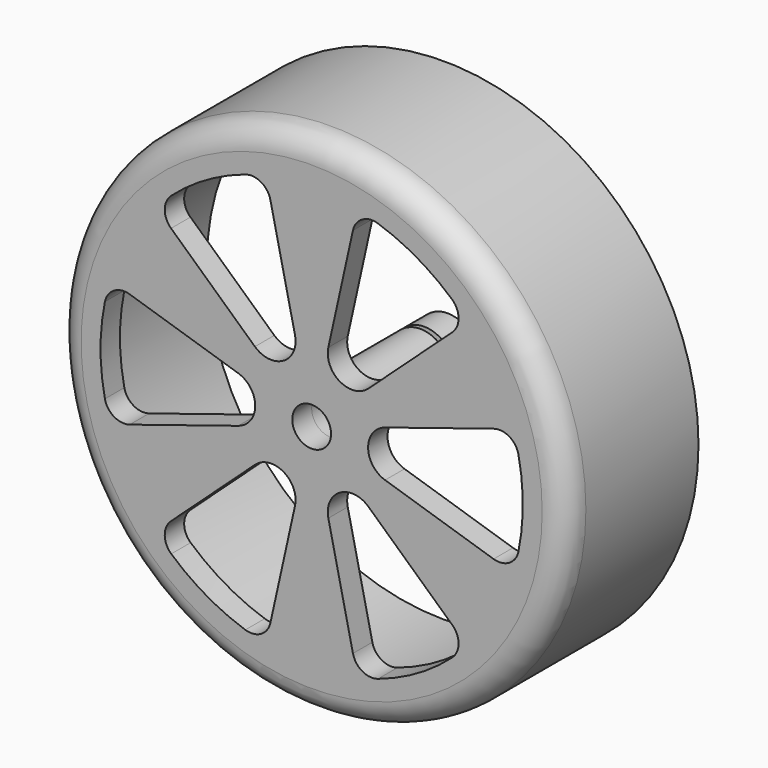
from build123d import *

# Parameters (mm, degrees)
F0_R      = 52.5
F0_R_2    = 48.8
F1_DEPTH  = 29
F2_R      = 52.5
F2_R_2    = 4
F3_DEPTH  = 5
F4_R      = 6.35
F4_R_2    = 4
F5_DEPTH  = 30
F7_R      = 6.85
F7_R_2    = 5.35
F8_DEPTH  = 1
F9_R      = 9.525
F9_R_2    = 4.384096
F10_DEPTH = 1
F11_R     = 5
F13_DEPTH = 25


with BuildPart() as f1:
    # F0 (on Front) → F1 (new body)
    with BuildSketch(Plane.XZ):
        Circle(F0_R)
        Circle(F0_R_2, mode=Mode.SUBTRACT)
    extrude(amount=F1_DEPTH)

    # F2 (on face) → F3 (join)
    with BuildSketch(Plane.XZ.offset(29)):
        Circle(F2_R)
        Circle(F2_R_2, mode=Mode.SUBTRACT)
    extrude(amount=F3_DEPTH)

    # F4 (on face) → F5 (join)
    with BuildSketch(Plane(origin=(0, -29, 0), x_dir=(-1, 0, 0), z_dir=(0, 1, 0))):
        Circle(F4_R)
        Circle(F4_R_2, mode=Mode.SUBTRACT)
    extrude(amount=F5_DEPTH)

    # F7 (on offset) → F8 (cut)
    with BuildSketch(Plane(origin=(0, -5, 0), x_dir=(-1, 0, 0), z_dir=(0, 1, 0))):
        Circle(F7_R)
        Circle(F7_R_2, mode=Mode.SUBTRACT)
    extrude(amount=-F8_DEPTH, mode=Mode.SUBTRACT)

    # F9 (on face) → F10 (join)
    with BuildSketch(Plane(origin=(0, -29, 0), x_dir=(-1, 0, 0), z_dir=(0, 1, 0))):
        Circle(F9_R)
        Circle(F9_R_2, mode=Mode.SUBTRACT)
    extrude(amount=F10_DEPTH)

    # F11
    f11_edges = [f1.edges().sort_by_distance(p)[0] for p in [
        (-52.5, -34, 0),
    ]]
    fillet(f11_edges, radius=F11_R)

    # F12 (on face) → F13 (cut)
    with BuildSketch(Plane.XZ.offset(34)):
        with BuildLine():
            ThreePointArc((42.598049, -8.812276), (43.5, 0), (42.598049, 8.812276))
            ThreePointArc((42.598049, 8.812276), (40.705485, 11.451793), (37.478164, 11.81682))
            Line((37.478164, 11.81682), (15.124019, 4.768585))
            ThreePointArc((15.124019, 4.768585), (11.627548, 0), (15.124019, -4.768585))
            Line((15.124019, -4.768585), (37.478164, -11.81682))
            ThreePointArc((37.478164, -11.81682), (40.705485, -11.451793), (42.598049, -8.812276))
        make_face()
        with BuildLine():
            ThreePointArc((28.93068, 32.484855), (21.75, 37.672105), (13.66737, 41.297131))
            ThreePointArc((13.66737, 41.297131), (10.435199, 40.977881), (8.505416, 38.365452))
            Line((8.505416, 38.365452), (3.432294, 15.482077))
            ThreePointArc((3.432294, 15.482077), (5.813774, 10.069752), (11.691725, 10.713492))
            Line((11.691725, 10.713492), (28.972748, 26.548632))
            ThreePointArc((28.972748, 26.548632), (30.270287, 29.526088), (28.93068, 32.484855))
        make_face()
        with BuildLine():
            ThreePointArc((-13.66737, 41.297131), (-21.75, 37.672105), (-28.93068, 32.484855))
            ThreePointArc((-28.93068, 32.484855), (-30.270287, 29.526088), (-28.972748, 26.548632))
            Line((-28.972748, 26.548632), (-11.691725, 10.713492))
            ThreePointArc((-11.691725, 10.713492), (-5.813774, 10.069752), (-3.432294, 15.482077))
            Line((-3.432294, 15.482077), (-8.505416, 38.365452))
            ThreePointArc((-8.505416, 38.365452), (-10.435199, 40.977881), (-13.66737, 41.297131))
        make_face()
        with BuildLine():
            ThreePointArc((-42.598049, 8.812276), (-43.5, 0), (-42.598049, -8.812276))
            ThreePointArc((-42.598049, -8.812276), (-40.705485, -11.451793), (-37.478164, -11.81682))
            Line((-37.478164, -11.81682), (-15.124019, -4.768585))
            ThreePointArc((-15.124019, -4.768585), (-11.627548, 0), (-15.124019, 4.768585))
            Line((-15.124019, 4.768585), (-37.478164, 11.81682))
            ThreePointArc((-37.478164, 11.81682), (-40.705485, 11.451793), (-42.598049, 8.812276))
        make_face()
        with BuildLine():
            ThreePointArc((-28.93068, -32.484855), (-21.75, -37.672105), (-13.66737, -41.297131))
            ThreePointArc((-13.66737, -41.297131), (-10.435199, -40.977881), (-8.505416, -38.365452))
            Line((-8.505416, -38.365452), (-3.432294, -15.482077))
            ThreePointArc((-3.432294, -15.482077), (-5.813774, -10.069752), (-11.691725, -10.713492))
            Line((-11.691725, -10.713492), (-28.972748, -26.548632))
            ThreePointArc((-28.972748, -26.548632), (-30.270287, -29.526088), (-28.93068, -32.484855))
        make_face()
        with BuildLine():
            ThreePointArc((13.66737, -41.297131), (21.75, -37.672105), (28.93068, -32.484855))
            ThreePointArc((28.93068, -32.484855), (30.270287, -29.526088), (28.972748, -26.548632))
            Line((28.972748, -26.548632), (11.691725, -10.713492))
            ThreePointArc((11.691725, -10.713492), (5.813774, -10.069752), (3.432294, -15.482077))
            Line((3.432294, -15.482077), (8.505416, -38.365452))
            ThreePointArc((8.505416, -38.365452), (10.435199, -40.977881), (13.66737, -41.297131))
        make_face()
    extrude(amount=-F13_DEPTH, mode=Mode.SUBTRACT)


solid = f1.part
